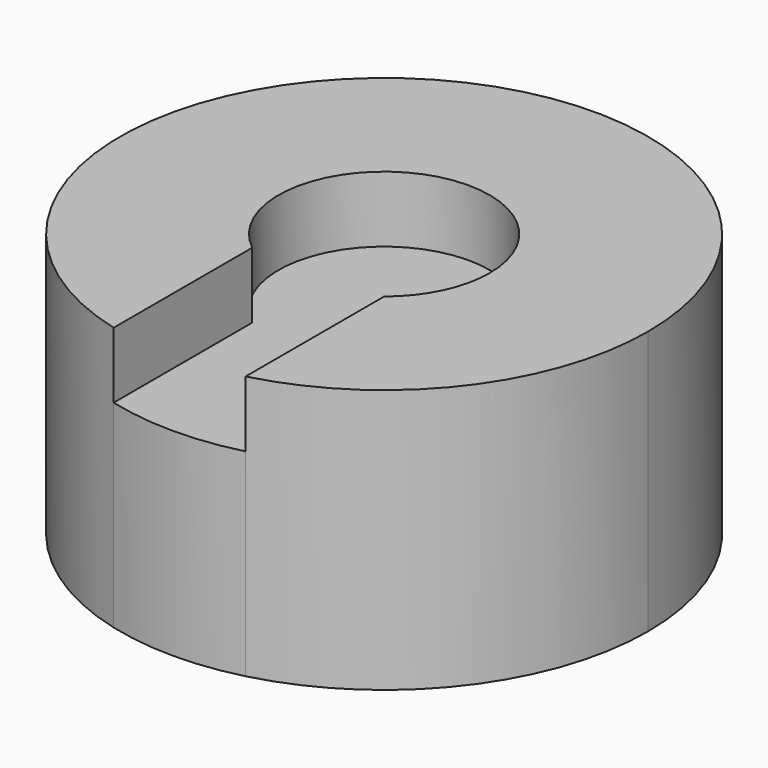
from build123d import *

# Parameters (mm, degrees)
F1_DEPTH = 19.05
F2_DEPTH = 19.05
F3_DEPTH = 25.4


with BuildPart() as f1:
    # F0 (on Top) → F1 (new body)
    with BuildSketch(Plane.XY):
        with BuildLine():
            ThreePointArc((10.16, 0), (-4.399409, 9.1581), (-6.35, -7.931147))
            ThreePointArc((-6.35, -7.931147), (0, -10.16), (6.35, -7.931147))
            ThreePointArc((6.35, -7.931147), (9.1581, -4.399409), (10.16, 0))
        make_face()
    extrude(amount=F1_DEPTH)

    # F0 (on Top) → F2 (join)
    with BuildSketch(Plane.XY):
        with BuildLine():
            Line((-6.35, -7.931147), (-6.35, -24.593444))
            ThreePointArc((-6.35, -24.593444), (0, -25.4), (6.35, -24.593444))
            Line((6.35, -24.593444), (6.35, -7.931147))
            ThreePointArc((6.35, -7.931147), (0, -10.16), (-6.35, -7.931147))
        make_face()
    extrude(amount=F2_DEPTH)

    # F0 (on Top) → F3 (join)
    with BuildSketch(Plane.XY):
        with BuildLine():
            ThreePointArc((6.35, -24.593444), (20.080463, -15.55426), (25.4, 0))
            ThreePointArc((25.4, 0), (-15.55426, 20.080463), (-6.35, -24.593444))
            Line((-6.35, -24.593444), (-6.35, -7.931147))
            ThreePointArc((-6.35, -7.931147), (-4.399409, 9.1581), (10.16, 0))
            ThreePointArc((10.16, 0), (9.1581, -4.399409), (6.35, -7.931147))
            Line((6.35, -7.931147), (6.35, -24.593444))
        make_face()
    extrude(amount=F3_DEPTH)


solid = f1.part
